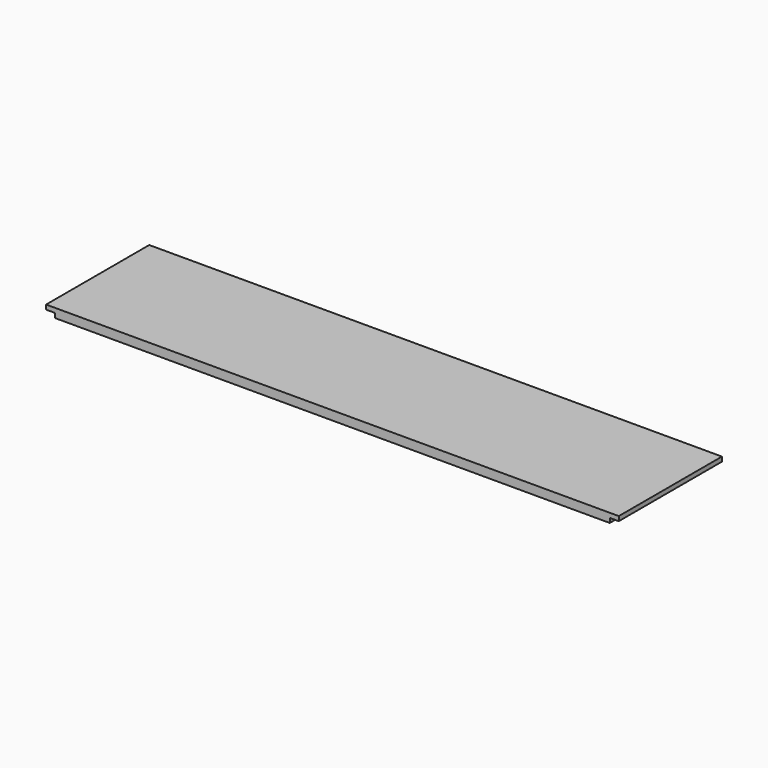
from build123d import *

# Parameters (mm, degrees)
F0_W     = 1212.85
F0_H     = 273.05
F1_DEPTH = 19.05
F2_W     = 19.05
F2_H     = 273.05
F2_H_2   = 254
F3_DEPTH = 9.525
F4_W     = 1174.75
F4_H     = 6.35
F5_DEPTH = 9.525


with BuildPart() as f1:
    # F0 (on Top) → F1 (new body)
    with BuildSketch(Plane.XY):
        with Locations((606.425, 136.525)):
            Rectangle(F0_W, F0_H)
    extrude(amount=F1_DEPTH)

    # F2 (on face) → F3 (cut)
    with BuildSketch(Plane(origin=(0, 0, 0), x_dir=(1, 0, 0), z_dir=(0, 0, -1))):
        with Locations((9.525, -136.525)):
            Rectangle(F2_W, F2_H)
        with Locations((307.975, -146.05)):
            Rectangle(F2_W, F2_H_2)
        with Locations((606.425, -146.05)):
            Rectangle(F2_W, F2_H_2)
        with Locations((904.875, -146.05)):
            Rectangle(F2_W, F2_H_2)
        with Locations((1203.325, -136.525)):
            Rectangle(F2_W, F2_H)
    extrude(amount=-F3_DEPTH, mode=Mode.SUBTRACT)

    # F4 (on face) → F5 (cut)
    with BuildSketch(Plane(origin=(0, 0, 0), x_dir=(1, 0, 0), z_dir=(0, 0, -1))):
        with Locations((606.425, -269.875)):
            Rectangle(F4_W, F4_H)
    extrude(amount=-F5_DEPTH, mode=Mode.SUBTRACT)


solid = f1.part
